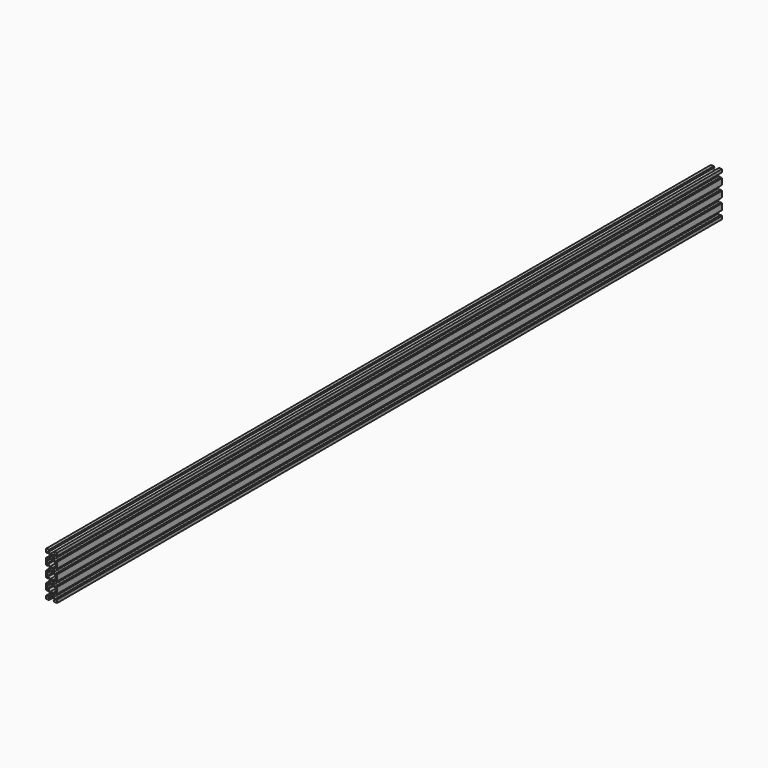
from build123d import *

# Parameters (mm, degrees)
F0_R     = 2.1
F1_DEPTH = 750


with BuildPart() as f1:
    # F0 (on Front) → F1 (new body, symmetric)
    with BuildSketch(Plane.XZ):
        Polygon((-4.58, 40), (-10, 40), (-10, 34.58), (-8.2, 33.125), (-8.2, 35.5), (-6.56066, 35.5), (-3.9, 32.83934), (-3.9, 27.16066), (-6.56066, 24.5), (-8.2, 24.5), (-8.2, 26.875), (-10, 25.42), (-10, 14.58), (-8.2, 13.125), (-8.2, 15.5), (-6.56066, 15.5), (-3.9, 12.83934), (-3.9, 7.16066), (-6.56066, 4.5), (-8.2, 4.5), (-8.2, 6.875), (-10, 5.42), (-10, -5.42), (-8.2, -6.875), (-8.2, -4.5), (-6.56066, -4.5), (-3.9, -7.16066), (-3.9, -12.83934), (-6.56066, -15.5), (-8.2, -15.5), (-8.2, -13.125), (-10, -14.58), (-10, -25.42), (-8.2, -26.875), (-8.2, -24.5), (-6.56066, -24.5), (-3.9, -27.16066), (-3.9, -32.83934), (-6.56066, -35.5), (-8.2, -35.5), (-8.2, -33.125), (-10, -34.58), (-10, -40), (-4.58, -40), (-3.125, -38.2), (-5.5, -38.2), (-5.5, -36.56066), (-2.83934, -33.9), (2.83934, -33.9), (5.5, -36.56066), (5.5, -38.2), (3.125, -38.2), (4.58, -40), (10, -40), (10, -34.58), (8.2, -33.125), (8.2, -35.5), (6.56066, -35.5), (3.9, -32.83934), (3.9, -27.16066), (6.56066, -24.5), (8.2, -24.5), (8.2, -26.875), (10, -25.42), (10, -14.58), (8.2, -13.125), (8.2, -15.5), (6.56066, -15.5), (3.9, -12.83934), (3.9, -7.16066), (6.56066, -4.5), (8.2, -4.5), (8.2, -6.875), (10, -5.42), (10, 5.42), (8.2, 6.875), (8.2, 4.5), (6.56066, 4.5), (3.9, 7.16066), (3.9, 12.83934), (6.56066, 15.5), (8.2, 15.5), (8.2, 13.125), (10, 14.58), (10, 25.42), (8.2, 26.875), (8.2, 24.5), (6.56066, 24.5), (3.9, 27.16066), (3.9, 32.83934), (6.56066, 35.5), (8.2, 35.5), (8.2, 33.125), (10, 34.58), (10, 40), (4.58, 40), (3.125, 38.2), (5.5, 38.2), (5.5, 36.56066), (2.83934, 33.9), (-2.83934, 33.9), (-5.5, 36.56066), (-5.5, 38.2), (-3.125, 38.2), align=None)
        with Locations((0, -30)):
            Circle(F0_R, mode=Mode.SUBTRACT)
        Polygon((-5.93934, -17), (-2.83934, -13.9), (2.83934, -13.9), (5.93934, -17), (8.2, -17), (8.2, -23), (5.93934, -23), (2.83934, -26.1), (-2.83934, -26.1), (-5.93934, -23), (-8.2, -23), (-8.2, -17), align=None, mode=Mode.SUBTRACT)
        with Locations((0, -10)):
            Circle(F0_R, mode=Mode.SUBTRACT)
        Polygon((-5.93934, 3), (-2.83934, 6.1), (2.83934, 6.1), (5.93934, 3), (8.2, 3), (8.2, -3), (5.93934, -3), (2.83934, -6.1), (-2.83934, -6.1), (-5.93934, -3), (-8.2, -3), (-8.2, 3), align=None, mode=Mode.SUBTRACT)
        with Locations((0, 10)):
            Circle(F0_R, mode=Mode.SUBTRACT)
        Polygon((-5.93934, 23), (-2.83934, 26.1), (2.83934, 26.1), (5.93934, 23), (8.2, 23), (8.2, 17), (5.93934, 17), (2.83934, 13.9), (-2.83934, 13.9), (-5.93934, 17), (-8.2, 17), (-8.2, 23), align=None, mode=Mode.SUBTRACT)
        with Locations((0, 30)):
            Circle(F0_R, mode=Mode.SUBTRACT)
    extrude(amount=F1_DEPTH, both=True)


solid = f1.part
